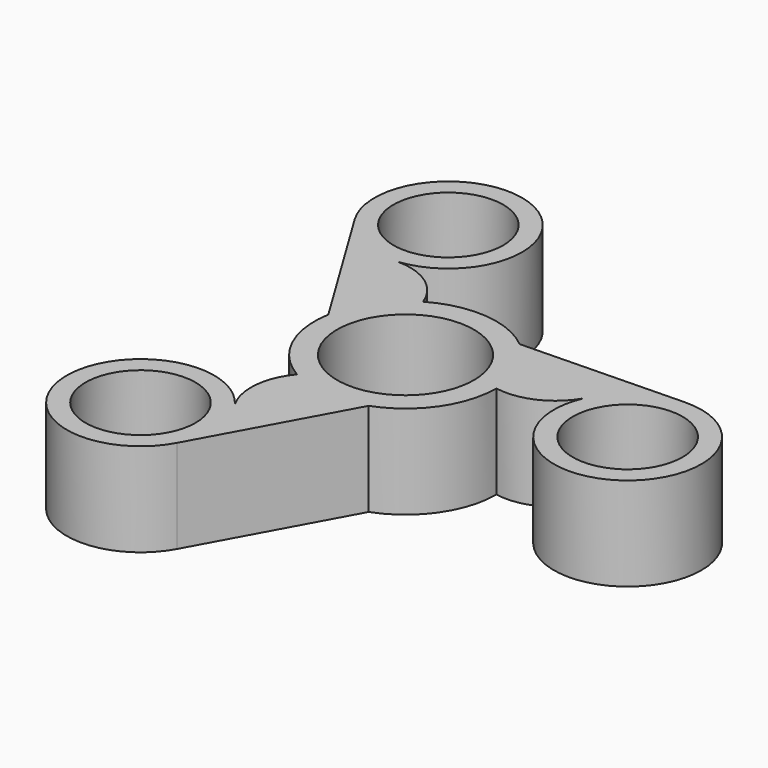
from build123d import *

# Parameters (mm, degrees)
F0_R     = 29.854818598
F1_DEPTH = 25.4
F2_DEPTH = 25.4


with BuildPart() as f1:
    # F0 (on Top) → F1 (new body)
    with BuildSketch(Plane.XY):
        with BuildLine():
            ThreePointArc((17.0482612375, -46.3935756734), (40.5317641962, -28.2875090124), (49.4267849955, 0))
            ThreePointArc((49.4267849955, 0), (44.7635835127, 20.9577829479), (31.6538844868, 37.9610151587))
            Line((31.6538844868, 37.9610151587), (0, 37.2006370822))
            ThreePointArc((0, 37.2006370822), (26.3048227453, 26.3048227453), (37.2006370822, 0))
            ThreePointArc((37.2006370822, 0), (35.9330561121, -9.6282333668), (32.2166967502, -18.6003185411))
            Line((32.2166967502, -18.6003185411), (17.0482612375, -46.3935756734))
        make_face()
        with BuildLine():
            ThreePointArc((31.6538844868, 37.9610151587), (44.7635835127, 20.9577829479), (49.4267849955, 0))
            ThreePointArc((49.4267849955, 0), (69.133149403, 2.4864036797), (83.9105059381, 15.7586580193))
            ThreePointArc((83.9105059381, 15.7586580193), (84.9182433506, 17.9336709343), (86.0541722761, 20.0445667984))
            ThreePointArc((86.0541722761, 20.0445667984), (100.3127983691, 34.4758031035), (119.810917343, 40.0786912721))
            Line((119.810917343, 40.0786912721), (31.6538844868, 37.9610151587))
        make_face()
        with BuildLine():
            Line((0, 37.2006370822), (31.6538844868, 37.9610151587))
            ThreePointArc((31.6538844868, 37.9610151587), (4.2318193164, 49.2452919604), (-24.7133924977, 42.8048514335))
            ThreePointArc((-24.7133924977, 42.8048514335), (-40.5317641962, 28.2875090124), (-48.7021457243, 8.4325605147))
            Line((-48.7021457243, 8.4325605147), (-32.2166967502, -18.6003185411))
            ThreePointArc((-32.2166967502, -18.6003185411), (-32.2166967502, 18.6003185411), (0, 37.2006370822))
        make_face()
        with BuildLine():
            Line((-25.1962938795, -123.7986437058), (17.0482612375, -46.3935756734))
            ThreePointArc((17.0482612375, -46.3935756734), (-4.2318193164, -49.2452919604), (-24.7133924977, -42.8048514335))
            ThreePointArc((-24.7133924977, -42.8048514335), (-32.4132859508, -61.1142654665), (-28.3078547948, -80.5479587964))
            ThreePointArc((-28.3078547948, -80.5479587964), (-26.9281070631, -82.5081914535), (-25.6679820828, -84.547382692))
            ThreePointArc((-25.6679820828, -84.547382692), (-21.662709332, -94.2166357984), (-20.2965834409, -104.5930689762))
            ThreePointArc((-20.2965834409, -104.5930689762), (-21.5408190124, -114.5034330345), (-25.1962938795, -123.7986437058))
        make_face()
        with BuildLine():
            ThreePointArc((-24.7133924977, -42.8048514335), (-4.2318193164, -49.2452919604), (17.0482612375, -46.3935756734))
            Line((17.0482612375, -46.3935756734), (32.2166967502, -18.6003185411))
            ThreePointArc((32.2166967502, -18.6003185411), (0, -37.2006370822), (-32.2166967502, -18.6003185411))
            Line((-32.2166967502, -18.6003185411), (-48.7021457243, 8.4325605147))
            ThreePointArc((-48.7021457243, 8.4325605147), (-44.7635835127, -20.9577829479), (-24.7133924977, -42.8048514335))
        make_face()
        with BuildLine():
            ThreePointArc((86.0541722761, 20.0445667984), (85.0596089794, 17.8629646371), (83.9105059381, 15.7586580193))
            ThreePointArc((83.9105059381, 15.7586580193), (112.7308286226, -39.2751963209), (160.8639261454, 0))
            ThreePointArc((160.8639261454, 0), (148.779308851, 28.6864559758), (119.810917343, 40.0786912721))
            ThreePointArc((119.810917343, 40.0786912721), (100.3127983691, 34.4758031035), (86.0541722761, 20.0445667984))
        make_face()
        with Locations((120.7736730576, 0)):
            Circle(F0_R, mode=Mode.SUBTRACT)
        with BuildLine():
            ThreePointArc((86.0541722761, 20.0445667984), (84.9182433506, 17.9336709343), (83.9105059381, 15.7586580193))
            ThreePointArc((83.9105059381, 15.7586580193), (85.0596089794, 17.8629646371), (86.0541722761, 20.0445667984))
        make_face()
        with BuildLine():
            ThreePointArc((-48.7021457243, 8.4325605147), (-40.5317641962, 28.2875090124), (-24.7133924977, 42.8048514335))
            ThreePointArc((-24.7133924977, 42.8048514335), (-36.7198634522, 58.6278617868), (-55.6026511433, 64.7893007771))
            ThreePointArc((-55.6026511433, 64.7893007771), (-57.9901362875, 64.5745205192), (-60.3861901934, 64.5028158936))
            ThreePointArc((-60.3861901934, 64.5028158936), (-80.013320488, 69.6355301606), (-94.6146234635, 83.7199524337))
            Line((-94.6146234635, 83.7199524337), (-48.7021457243, 8.4325605147))
        make_face()
        with BuildLine():
            ThreePointArc((-28.3078547948, -80.5479587964), (-100.3737426853, -107.4698256006), (-25.1962938795, -123.7986437058))
            ThreePointArc((-25.1962938795, -123.7986437058), (-21.5408190124, -114.5034330345), (-20.2965834409, -104.5930689762))
            ThreePointArc((-20.2965834409, -104.5930689762), (-21.662709332, -94.2166357984), (-25.6679820828, -84.547382692))
            ThreePointArc((-25.6679820828, -84.547382692), (-27.0600233271, -82.5952645307), (-28.3078547948, -80.5479587964))
        make_face()
        with Locations((-60.3868365288, -104.5930689762)):
            Circle(F0_R, mode=Mode.SUBTRACT)
        with BuildLine():
            ThreePointArc((-60.3861901934, 64.5028158936), (-57.9995856524, 64.7322998936), (-55.6026511433, 64.7893007771))
            ThreePointArc((-55.6026511433, 64.7893007771), (-30.3949409937, 77.9901632164), (-20.2965834409, 104.5930689762))
            ThreePointArc((-20.2965834409, 104.5930689762), (-71.2272182517, 143.1898890104), (-94.6146234635, 83.7199524337))
            ThreePointArc((-94.6146234635, 83.7199524337), (-80.013320488, 69.6355301606), (-60.3861901934, 64.5028158936))
        make_face()
        with Locations((-60.3868365288, 104.5930689762)):
            Circle(F0_R, mode=Mode.SUBTRACT)
        with BuildLine():
            ThreePointArc((-60.3861901934, 64.5028158936), (-57.9901362875, 64.5745205192), (-55.6026511433, 64.7893007771))
            ThreePointArc((-55.6026511433, 64.7893007771), (-57.9995856524, 64.7322998936), (-60.3861901934, 64.5028158936))
        make_face()
        with BuildLine():
            ThreePointArc((-25.6679820828, -84.547382692), (-26.9281070631, -82.5081914535), (-28.3078547948, -80.5479587964))
            ThreePointArc((-28.3078547948, -80.5479587964), (-27.0600233271, -82.5952645307), (-25.6679820828, -84.547382692))
        make_face()
    extrude(amount=F1_DEPTH)

    # F2 (add): a face of the model
    f2_faces = [f1.faces().sort_by_distance(p)[0] for p in [
        (-28.5317181003, -61.4839263202, 25.4),
    ]]
    extrude(f2_faces, amount=F2_DEPTH)


solid = f1.part
